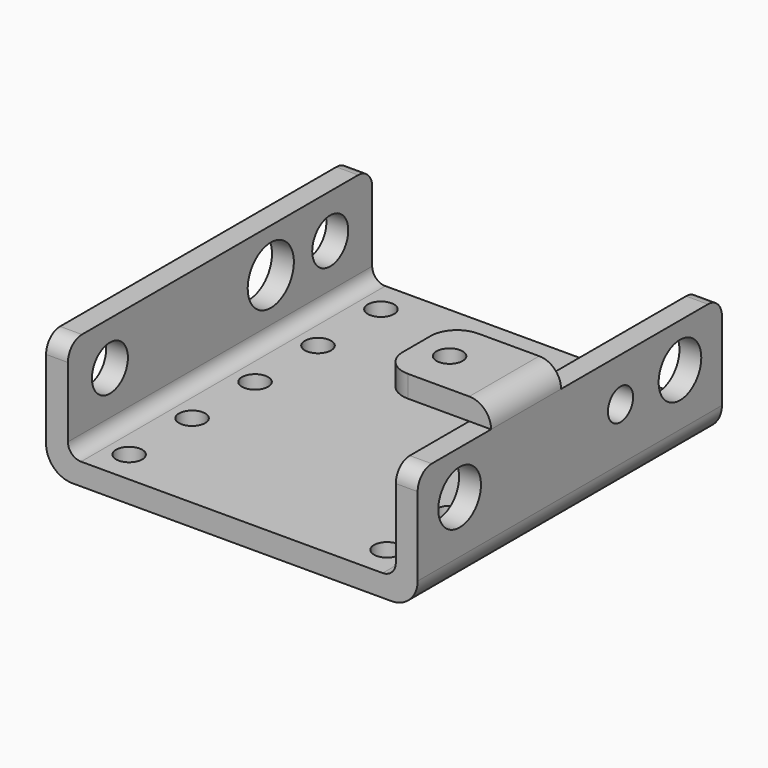
from build123d import *

# Parameters (mm, degrees)
F1_DEPTH  = 87
F2_R      = 3
F3_R      = 6
F4_R      = 3
F5_R      = 4
F6_W      = 25
F6_H      = 20
F6_R      = 3
F7_DEPTH  = 5
F8_R      = 5
F9_R      = 6
F10_R     = 5.15
F10_R_2   = 6.6
F11_DEPTH = 25
F12_R     = 6.1
F12_R_2   = 3.6
F13_DEPTH = 25
F14_R     = 3
F15_DEPTH = 25


with BuildPart() as f1:
    # F0 (on Front) → F1 (new body)
    with BuildSketch(Plane.XZ):
        Polygon((0, 28), (0, 0), (85, 0), (85, 28), (80, 28), (80, 5), (5, 5), (5, 28), align=None)
    extrude(amount=-F1_DEPTH)

    # F2
    f2_edges = [f1.edges().sort_by_distance(p)[0] for p in [
        (5, 43.5, 5),
    ]]
    fillet(f2_edges, radius=F2_R)

    # F3
    f3_edges = [f1.edges().sort_by_distance(p)[0] for p in [
        (0, 43.5, 0),
        (85, 43.5, 0),
    ]]
    fillet(f3_edges, radius=F3_R)

    # F4
    f4_edges = [f1.edges().sort_by_distance(p)[0] for p in [
        (80, 43.5, 5),
    ]]
    fillet(f4_edges, radius=F4_R)

    # F5
    f5_edges = [f1.edges().sort_by_distance(p)[0] for p in [
        (82.5, 0, 28),
        (2.5, 0, 28),
        (2.5, 87, 28),
        (82.5, 87, 28),
    ]]
    fillet(f5_edges, radius=F5_R)

    # F6 (on face) → F7 (join)
    with BuildSketch(Plane.XY.offset(28)):
        with Locations((72.5, 31)):
            Rectangle(F6_W, F6_H)
        with Locations((67.5, 31)):
            Circle(F6_R, mode=Mode.SUBTRACT)
    extrude(amount=F7_DEPTH)

    # F8
    f8_edges = [f1.edges().sort_by_distance(p)[0] for p in [
        (85, 31, 33),
    ]]
    fillet(f8_edges, radius=F8_R)

    # F9
    f9_edges = [f1.edges().sort_by_distance(p)[0] for p in [
        (60, 21, 30.5),
        (60, 41, 30.5),
    ]]
    fillet(f9_edges, radius=F9_R)

    # F10 (on face) → F11 (cut)
    with BuildSketch(Plane(origin=(0, 0, 0), x_dir=(0, -1, 0), z_dir=(-1, 0, 0))):
        with Locations((-12, 18)):
            Circle(F10_R)
        with Locations((-58, 18)):
            Circle(F10_R_2)
        with Locations((-75, 18)):
            Circle(F10_R)
    extrude(amount=-F11_DEPTH, mode=Mode.SUBTRACT)

    # F12 (on face) → F13 (cut)
    with BuildSketch(Plane.YZ.offset(85)):
        with Locations((75, 18)):
            Circle(F12_R)
        with Locations((58, 18)):
            Circle(F12_R_2)
        with Locations((12, 18)):
            Circle(F12_R)
    extrude(amount=-F13_DEPTH, mode=Mode.SUBTRACT)

    # F14 (on face) → F15 (cut)
    with BuildSketch(Plane(origin=(0, 0, 0), x_dir=(1, 0, 0), z_dir=(0, 0, -1))):
        with Locations((13, -7.5)):
            Circle(F14_R)
        with Locations((13, -25.5)):
            Circle(F14_R)
        with Locations((13, -43.5)):
            Circle(F14_R)
        with Locations((13, -79.5)):
            Circle(F14_R)
        with Locations((13, -61.5)):
            Circle(F14_R)
        with Locations((72, -79.5)):
            Circle(F14_R)
        with Locations((72, -61.5)):
            Circle(F14_R)
        with Locations((72, -43.5)):
            Circle(F14_R)
        with Locations((72, -7.5)):
            Circle(F14_R)
        with Locations((72, -25.5)):
            Circle(F14_R)
    extrude(amount=-F15_DEPTH, mode=Mode.SUBTRACT)


solid = f1.part
